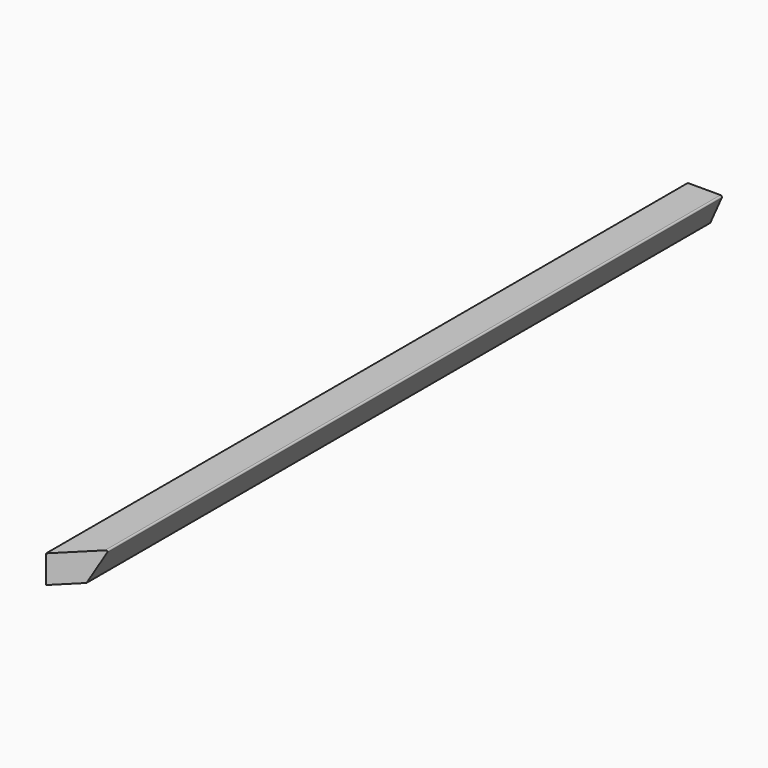
from build123d import *

# Parameters (mm, degrees)
F1_DEPTH = 1150
F2_R     = 2
F4_DEPTH = 40.001


with BuildPart() as f1:
    # F0 (on Front) → F1 (new body)
    with BuildSketch(Plane.XZ):
        Polygon((0, 40), (0, 0), (32.190853, 0), (50, 40), align=None)
    extrude(amount=F1_DEPTH)

    # F2
    f2_edges = [f1.edges().sort_by_distance(p)[0] for p in [
        (50, -575, 40),
    ]]
    fillet(f2_edges, radius=F2_R)

    # F3 (on face) → F4 (cut, through all)
    with BuildSketch(Plane.XY.offset(40)):
        Polygon((46.92027, -1103.07973), (0, -1150), (46.92027, -1150), align=None)
        Polygon((53.244177, -1096.755823), (46.92027, -1103.07973), (46.92027, -1150), (53.244177, -1150), align=None)
    extrude(amount=-F4_DEPTH, mode=Mode.SUBTRACT)


solid = f1.part
